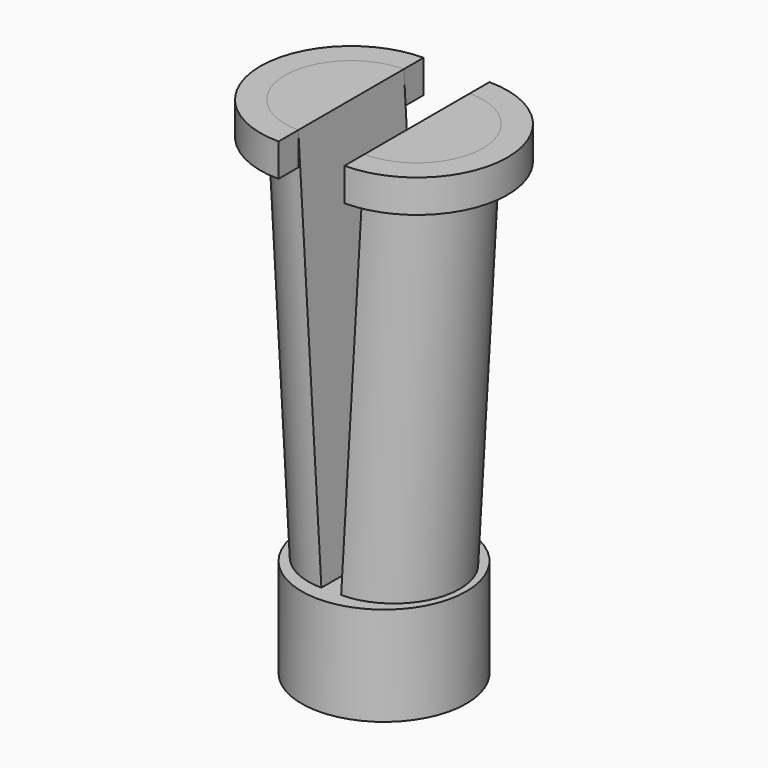
from build123d import *

# Parameters (mm, degrees)
F6_R     = 2.5
F7_DEPTH = 3
F8_DEPTH = 1


with BuildPart() as f4:
    # F2 (on offset) → F4 section 0
    with BuildSketch(Plane.XY.offset(-6)):
        with BuildLine():
            ThreePointArc((0.3, -2), (2.3, 0), (0.3, 2))
            Line((0.3, 2), (0.3, -2))
        make_face()
    # F3 (on offset) → F4 section 1
    with BuildSketch(Plane.XY.offset(6)):
        with BuildLine():
            ThreePointArc((1, -2), (3, 0), (1, 2))
            Line((1, 2), (1, -2))
        make_face()
    loft()


with BuildPart() as f5:
    # F3 (on offset) → F5 section 0
    with BuildSketch(Plane.XY.offset(6)):
        with BuildLine():
            Line((-1, -2), (-1, 2))
            ThreePointArc((-1, 2), (-3, 0), (-1, -2))
        make_face()
    # F2 (on offset) → F5 section 1
    with BuildSketch(Plane.XY.offset(-6)):
        with BuildLine():
            Line((-0.3, -2), (-0.3, 2))
            ThreePointArc((-0.3, 2), (-2.3, 0), (-0.3, -2))
        make_face()
    loft()


with BuildPart() as f7:
    # F6 (on face) → F7 (new body)
    with BuildSketch(Plane.XY.offset(-6)):
        Circle(F6_R)
        with BuildLine():
            Line((-0.3, 2), (-0.3, -2))
            ThreePointArc((-0.3, -2), (-2.3, 0), (-0.3, 2))
        make_face(mode=Mode.SUBTRACT)
    extrude(amount=-F7_DEPTH)


with BuildPart() as f7b:
    # F2 (on offset) → F7, piece 2 (new body)
    with BuildSketch(Plane.XY.offset(-6)):
        with BuildLine():
            Line((-0.3, -2), (-0.3, 2))
            ThreePointArc((-0.3, 2), (-2.3, 0), (-0.3, -2))
        make_face()
    extrude(amount=-F7_DEPTH)


with BuildPart() as f7c:
    # F2 (on offset) → F7, piece 3 (new body)
    with BuildSketch(Plane.XY.offset(-6)):
        with BuildLine():
            ThreePointArc((0.3, -2), (2.3, 0), (0.3, 2))
            Line((0.3, 2), (0.3, -2))
        make_face()
    extrude(amount=-F7_DEPTH)


with BuildPart() as f8:
    # F3 (on offset) → F8 (new body)
    with BuildSketch(Plane.XY.offset(6)):
        with BuildLine():
            ThreePointArc((-1, -2), (-3, 0), (-1, 2))
            Line((-1, 2), (-1, 2.75))
            ThreePointArc((-1, 2.75), (-3.75, 0), (-1, -2.75))
            Line((-1, -2.75), (-1, -2))
        make_face()
    extrude(amount=-F8_DEPTH)


with BuildPart() as f8b:
    # F3 (on offset) → F8, piece 2 (new body)
    with BuildSketch(Plane.XY.offset(6)):
        with BuildLine():
            Line((1, 2.75), (1, 2))
            ThreePointArc((1, 2), (3, 0), (1, -2))
            Line((1, -2), (1, -2.75))
            ThreePointArc((1, -2.75), (3.75, 0), (1, 2.75))
        make_face()
    extrude(amount=-F8_DEPTH)


solid = Compound([f4.part, f5.part, f7.part, f7b.part, f7c.part, f8.part, f8b.part])
